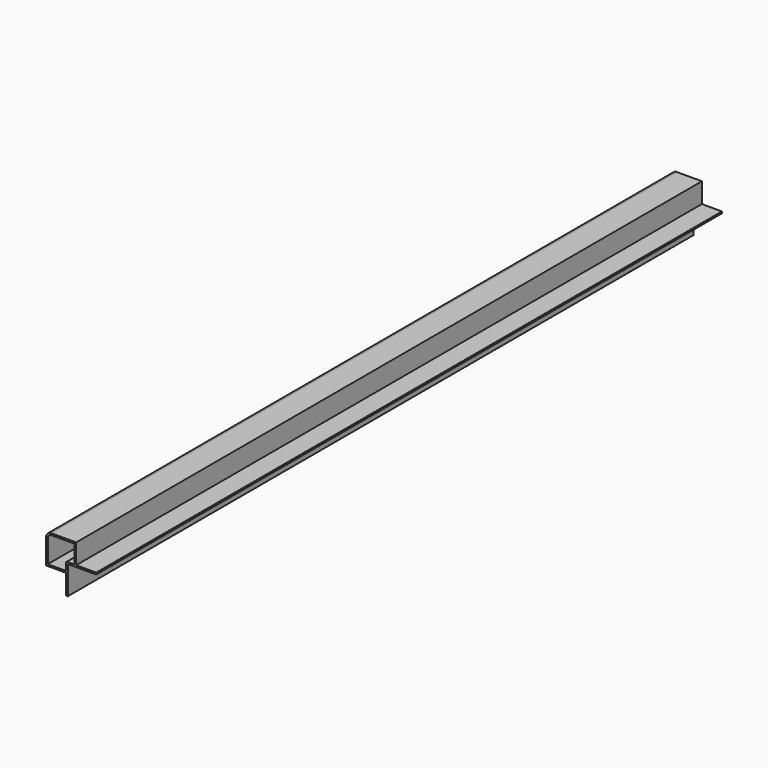
from build123d import *

# Parameters (mm, degrees)
F1_DEPTH = 780


with BuildPart() as f1:
    # F0 (on Front) → F1 (new body)
    with BuildSketch(Plane.XZ):
        with BuildLine():
            Line((15, 15), (-10, 15))
            ThreePointArc((-10, 15), (-13.535534, 13.535534), (-15, 10))
            Line((-15, 10), (-15, -15))
            Line((-15, -15), (5, -15))
            Line((5, -15), (5, -35))
            Line((5, -35), (6.7, -35))
            Line((6.7, -35), (6.7, -6.7))
            Line((6.7, -6.7), (35, -6.7))
            Line((35, -6.7), (35, -5))
            Line((35, -5), (15, -5))
            Line((15, -5), (15, 15))
        make_face()
        with BuildLine():
            ThreePointArc((6, -5), (5.292893, -5.292893), (5, -6))
            Line((5, -6), (5, -13.3))
            Line((5, -13.3), (-13.3, -13.3))
            Line((-13.3, -13.3), (-13.3, 10))
            ThreePointArc((-13.3, 10), (-12.333452, 12.333452), (-10, 13.3))
            Line((-10, 13.3), (13.3, 13.3))
            Line((13.3, 13.3), (13.3, -5))
            Line((13.3, -5), (6, -5))
        make_face(mode=Mode.SUBTRACT)
    extrude(amount=-F1_DEPTH)


solid = f1.part
